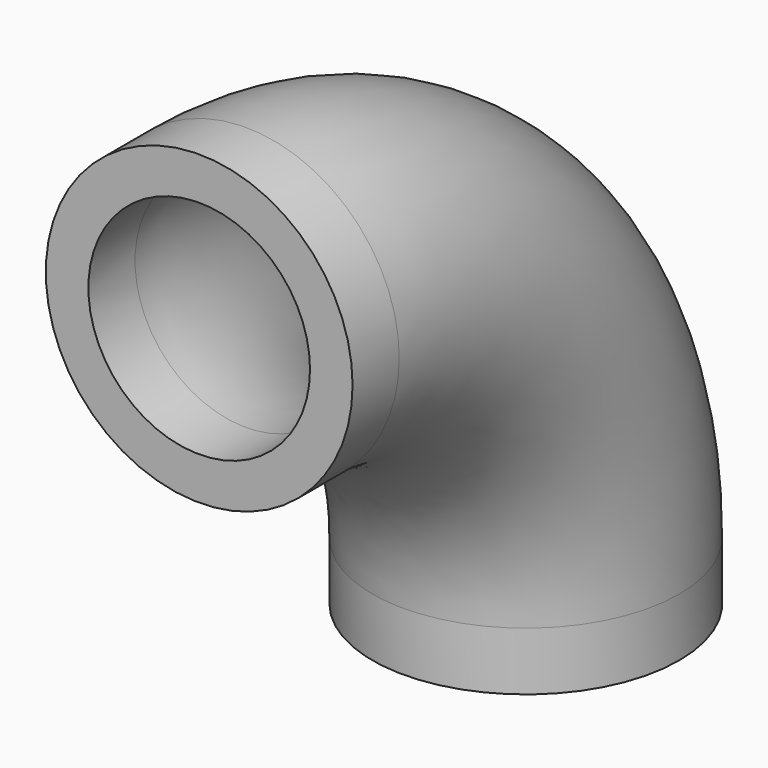
from build123d import *

# Parameters (mm, degrees)
F1_R     = 16.7005
F1_R_2   = 12.065
F3_DEPTH = 6.35
F4_DEPTH = 6.35


with BuildPart() as f2:
    # F2: sweep along a path in F0
    with BuildLine(Plane.YZ) as f2_path:
        ThreePointArc((38.1, 0), (26.9407683632, 26.9407683632), (0, 38.1))
    # F1 (on Front) → F2 (sweep)
    with BuildSketch(Plane.XZ):
        with Locations((0, 38.1)):
            Circle(F1_R)
        with Locations((0, 38.1)):
            Circle(F1_R_2, mode=Mode.SUBTRACT)
    sweep(path=f2_path.line)

    # F3 (add): a face of the model
    f3_faces = [f2.faces().sort_by_distance(p)[0] for p in [
        (-16.228138528, 0, 38.1),
    ]]
    extrude(f3_faces, amount=F3_DEPTH)

    # F4 (add): a face of the model
    f4_faces = [f2.faces().sort_by_distance(p)[0] for p in [
        (-16.228138528, 38.1, 0),
    ]]
    extrude(f4_faces, amount=F4_DEPTH)


solid = f2.part
